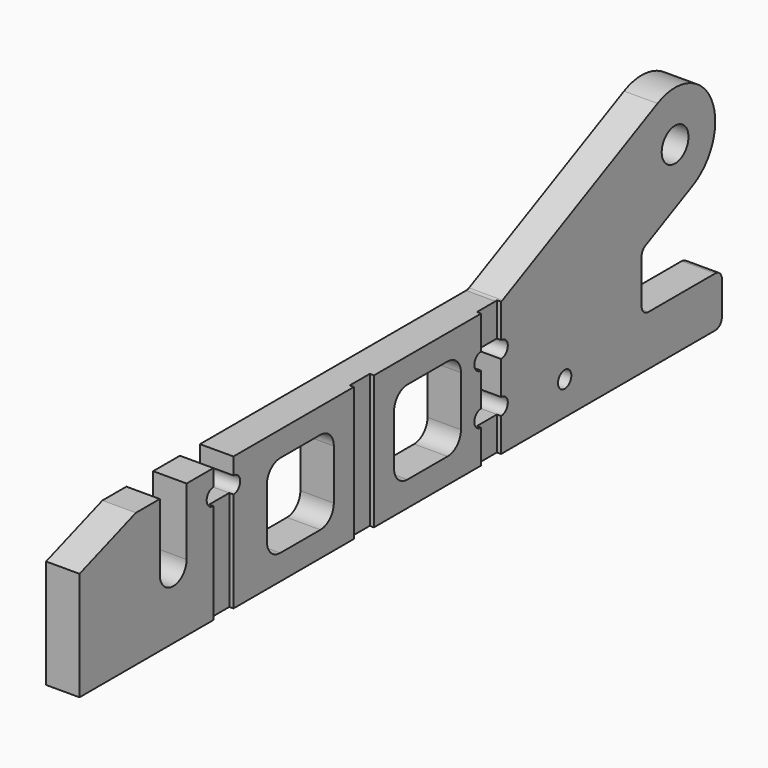
from build123d import *

# Parameters (mm, degrees)
F0_W     = 31.75
F0_H     = 31.75
F0_W_2   = 9.525
F0_H_2   = 50.8
F0_R     = 3.175
F0_R_2   = 6.35
F1_DEPTH = 12.7
F2_R     = 3.175
F3_W     = 9.525
F3_H     = 38.1
F4_DEPTH = 1.5875
F5_W     = 9.525
F5_H     = 12.7
F6_DEPTH = 1.5875
F7_W     = 9.525
F7_H     = 50.8
F8_DEPTH = 1.5875
F9_R     = 6.35


with BuildPart() as f1:
    # F0 (on Right) → F1 (new body)
    with BuildSketch(Plane.YZ):
        with BuildLine():
            Line((0, 41.275), (0, 0))
            Line((0, 0), (130.175, 0))
            Line((130.175, 0), (130.175, 50.8))
            Line((130.175, 50.8), (73.025, 50.8))
            Line((73.025, 50.8), (73.025, 44.45))
            ThreePointArc((73.025, 44.45), (76.2, 41.275), (73.025, 38.1))
            Line((73.025, 38.1), (63.5, 38.1))
            ThreePointArc((63.5, 38.1), (60.325, 41.275), (63.5, 44.45))
            Line((63.5, 44.45), (63.5, 50.8))
            Line((63.5, 50.8), (50.8, 50.8))
            Line((50.8, 50.8), (50.8, 25.4))
            ThreePointArc((50.8, 25.4), (44.45, 19.05), (38.1, 25.4))
            Line((38.1, 25.4), (38.1, 50.8))
            Line((38.1, 50.8), (26.7157145118, 50.8))
            Line((26.7157145118, 50.8), (0, 41.275))
        make_face()
        with Locations((104.775, 25.4)):
            Rectangle(F0_W, F0_H, mode=Mode.SUBTRACT)
        with Locations((134.9375, 25.4)):
            Rectangle(F0_W_2, F0_H_2)
        with BuildLine():
            Line((139.7, 50.8), (139.7, 0))
            Line((139.7, 0), (304.8, 0))
            Line((304.8, 0), (304.8, 19.05))
            Line((304.8, 19.05), (266.7, 19.05))
            Line((266.7, 19.05), (266.7, 40.9178125))
            Line((266.7, 40.9178125), (290.922752809, 52.7264044944))
            ThreePointArc((290.922752809, 52.7264044944), (299.6985955056, 78.197752809), (274.227247191, 86.9735955056))
            Line((274.227247191, 86.9735955056), (200.025, 50.8))
            Line((200.025, 50.8), (139.7, 50.8))
        make_face()
        with Locations((230.1875, 12.7)):
            Circle(F0_R, mode=Mode.SUBTRACT)
        with Locations((165.1, 25.4)):
            Rectangle(F0_W, F0_H, mode=Mode.SUBTRACT)
        with BuildLine():
            Line((190.5, 38.1), (200.025, 38.1))
            ThreePointArc((200.025, 38.1), (203.2, 34.925), (200.025, 31.75))
            Line((200.025, 31.75), (200.025, 19.05))
            ThreePointArc((200.025, 19.05), (203.2, 15.875), (200.025, 12.7))
            Line((200.025, 12.7), (190.5, 12.7))
            ThreePointArc((190.5, 12.7), (187.325, 15.875), (190.5, 19.05))
            Line((190.5, 19.05), (190.5, 31.75))
            ThreePointArc((190.5, 31.75), (187.325, 34.925), (190.5, 38.1))
        make_face(mode=Mode.SUBTRACT)
        with Locations((282.575, 69.85)):
            Circle(F0_R_2, mode=Mode.SUBTRACT)
    extrude(amount=F1_DEPTH)

    # F2
    f2_edges = [f1.edges().sort_by_distance(p)[0] for p in [
        (6.35, 200.025, 50.8),
        (6.35, 266.7, 40.917812),
        (6.35, 266.7, 19.05),
        (6.35, 304.8, 19.05),
        (6.35, 304.8, 0),
    ]]
    fillet(f2_edges, radius=F2_R)

    # F3 (on face) → F4 (cut)
    with BuildSketch(Plane.YZ.offset(12.7)):
        with Locations((68.2625, 19.05)):
            Rectangle(F3_W, F3_H)
    extrude(amount=-F4_DEPTH, mode=Mode.SUBTRACT)

    # F5 (on face) → F6 (cut)
    with BuildSketch(Plane.YZ.offset(12.7)):
        with Locations((195.2625, 6.35)):
            Rectangle(F5_W, F5_H)
        with BuildLine():
            ThreePointArc((199.2923076923, 50.8), (199.6611512097, 50.8214972713), (200.025, 50.8856979781))
            Line((200.025, 50.8856979781), (200.025, 52.109055835))
            Line((200.025, 52.109055835), (190.5, 52.109055835))
            Line((190.5, 52.109055835), (190.5, 50.8))
            Line((190.5, 50.8), (199.2923076923, 50.8))
        make_face()
        with BuildLine():
            Line((190.5, 38.1), (200.025, 38.1))
            Line((200.025, 38.1), (200.025, 50.8856979781))
            ThreePointArc((200.025, 50.8856979781), (199.6611512097, 50.8214972713), (199.2923076923, 50.8))
            Line((199.2923076923, 50.8), (190.5, 50.8))
            Line((190.5, 50.8), (190.5, 38.1))
        make_face()
    extrude(amount=-F6_DEPTH, mode=Mode.SUBTRACT)

    # F7 (on face) → F8 (cut)
    with BuildSketch(Plane.YZ.offset(12.7)):
        with Locations((134.9375, 25.4)):
            Rectangle(F7_W, F7_H)
    extrude(amount=-F8_DEPTH, mode=Mode.SUBTRACT)

    # F9
    f9_edges = [f1.edges().sort_by_distance(p)[0] for p in [
        (6.35, 88.9, 41.275),
        (6.35, 120.65, 41.275),
        (6.35, 180.975, 41.275),
        (6.35, 149.225, 41.275),
        (6.35, 149.225, 9.525),
        (6.35, 88.9, 9.525),
        (6.35, 180.975, 9.525),
        (6.35, 120.65, 9.525),
    ]]
    fillet(f9_edges, radius=F9_R)


solid = f1.part
